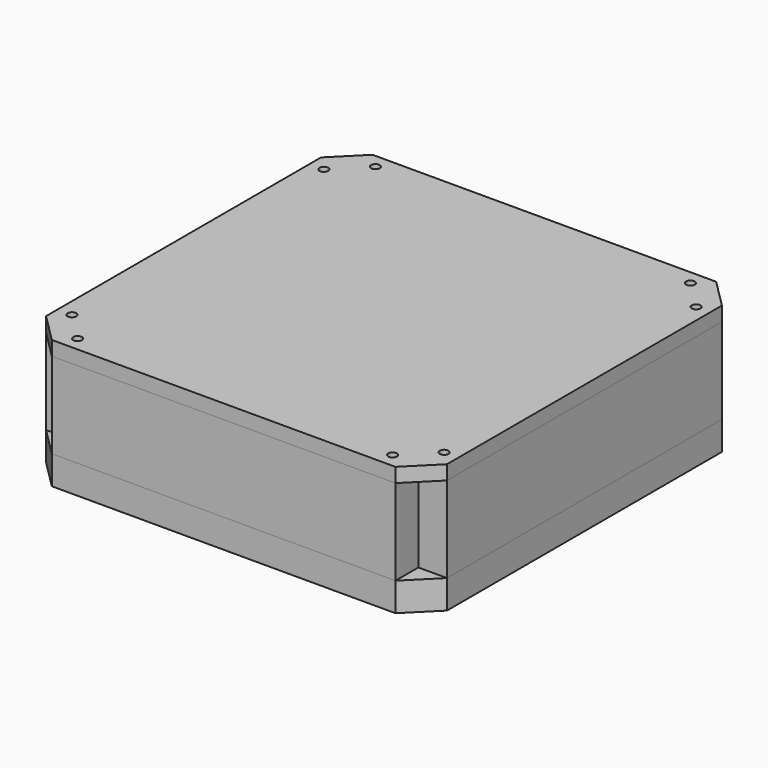
from build123d import *

# Parameters (mm, degrees)
F0_R     = 0.9652
F1_DEPTH = 6.35
F2_W     = 76.2
F2_H     = 6.35
F2_R     = 0.9652
F2_W_2   = 6.35
F2_H_2   = 76.2
F3_DEPTH = 19.05
F4_R     = 0.9652
F5_DEPTH = 3.175


with BuildPart() as f1:
    # F0 (on Top) → F1 (new body)
    with BuildSketch(Plane.XY):
        Polygon((38.1, 44.45), (-38.1, 44.45), (-44.45, 38.1), (-44.45, -38.1), (-38.1, -44.45), (38.1, -44.45), (44.45, -38.1), (44.45, 38.1), align=None)
        with Locations((-34.925, -41.275)):
            Circle(F0_R, mode=Mode.SUBTRACT)
        with Locations((-41.275, -34.925)):
            Circle(F0_R, mode=Mode.SUBTRACT)
        with Locations((34.925, -41.275)):
            Circle(F0_R, mode=Mode.SUBTRACT)
        with Locations((41.275, -34.925)):
            Circle(F0_R, mode=Mode.SUBTRACT)
        with Locations((-41.275, 34.925)):
            Circle(F0_R, mode=Mode.SUBTRACT)
        with Locations((-34.925, 41.275)):
            Circle(F0_R, mode=Mode.SUBTRACT)
        with Locations((41.275, 34.925)):
            Circle(F0_R, mode=Mode.SUBTRACT)
        with Locations((34.925, 41.275)):
            Circle(F0_R, mode=Mode.SUBTRACT)
    extrude(amount=F1_DEPTH)


with BuildPart() as f3:
    # F2 (on face) → F3 (new body)
    with BuildSketch(Plane.XY.offset(6.35)):
        with Locations((0, 41.275)):
            Rectangle(F2_W, F2_H)
        with Locations((-34.925, 41.275)):
            Circle(F2_R, mode=Mode.SUBTRACT)
        with Locations((34.925, 41.275)):
            Circle(F2_R, mode=Mode.SUBTRACT)
        with Locations((-41.275, 0)):
            Rectangle(F2_W_2, F2_H_2)
        with Locations((-41.275, -34.925)):
            Circle(F2_R, mode=Mode.SUBTRACT)
        with Locations((-41.275, 34.925)):
            Circle(F2_R, mode=Mode.SUBTRACT)
        with Locations((0, -41.275)):
            Rectangle(F2_W, F2_H)
        with Locations((-34.925, -41.275)):
            Circle(F2_R, mode=Mode.SUBTRACT)
        with Locations((34.925, -41.275)):
            Circle(F2_R, mode=Mode.SUBTRACT)
        with Locations((41.275, 0)):
            Rectangle(F2_W_2, F2_H_2)
        with Locations((41.275, -34.925)):
            Circle(F2_R, mode=Mode.SUBTRACT)
        with Locations((41.275, 34.925)):
            Circle(F2_R, mode=Mode.SUBTRACT)
    extrude(amount=F3_DEPTH)


with BuildPart() as f5:
    # F4 (on face) → F5 (new body)
    with BuildSketch(Plane.XY.offset(25.4)):
        Polygon((44.45, 38.1), (38.1, 44.45), (-38.1, 44.45), (-44.45, 38.1), (-44.45, -38.1), (-38.1, -44.45), (38.1, -44.45), (44.45, -38.1), align=None)
        with Locations((-34.925, -41.275)):
            Circle(F4_R, mode=Mode.SUBTRACT)
        with Locations((-41.275, -34.925)):
            Circle(F4_R, mode=Mode.SUBTRACT)
        with Locations((34.925, -41.275)):
            Circle(F4_R, mode=Mode.SUBTRACT)
        with Locations((41.275, -34.925)):
            Circle(F4_R, mode=Mode.SUBTRACT)
        with Locations((-41.275, 34.925)):
            Circle(F4_R, mode=Mode.SUBTRACT)
        with Locations((-34.925, 41.275)):
            Circle(F4_R, mode=Mode.SUBTRACT)
        with Locations((41.275, 34.925)):
            Circle(F4_R, mode=Mode.SUBTRACT)
        with Locations((34.925, 41.275)):
            Circle(F4_R, mode=Mode.SUBTRACT)
    extrude(amount=F5_DEPTH)


solid = Compound([f1.part, f3.part, f5.part])
